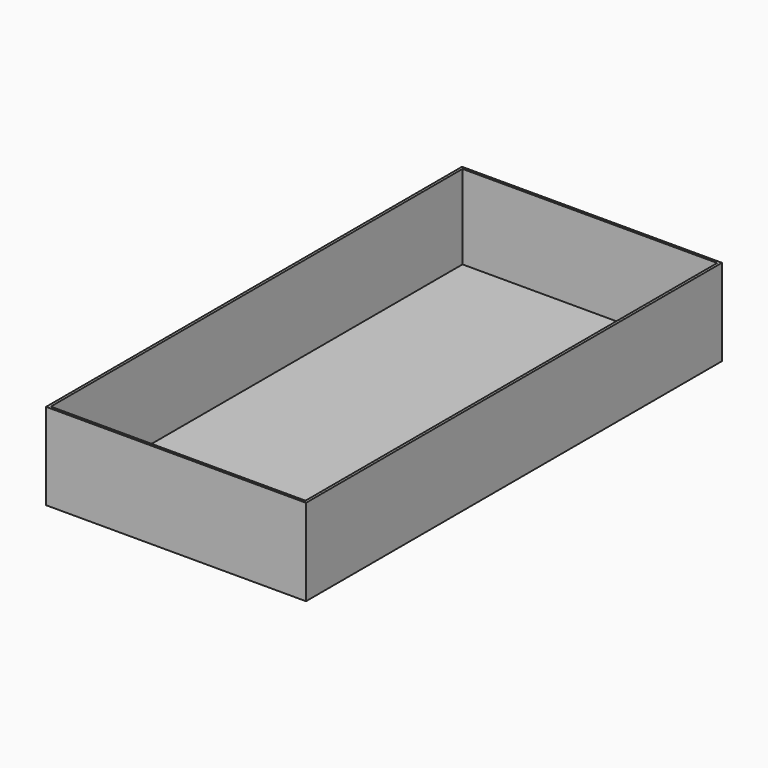
from build123d import *

# Parameters (mm, degrees)
F0_W     = 152.4
F0_H     = 50.8
F1_DEPTH = 152.4
F2_T     = -1.524


with BuildPart() as f1:
    # F0 (on Front) → F1 (new body, symmetric)
    with BuildSketch(Plane.XZ):
        with Locations((-36.709375, 8.207178)):
            Rectangle(F0_W, F0_H)
    extrude(amount=F1_DEPTH, both=True)

    # F2
    f2_openings = [f1.faces().sort_by_distance(p)[0] for p in [
        (-36.709375, 0, 33.607178),
    ]]
    offset(amount=F2_T, openings=f2_openings)


solid = f1.part
